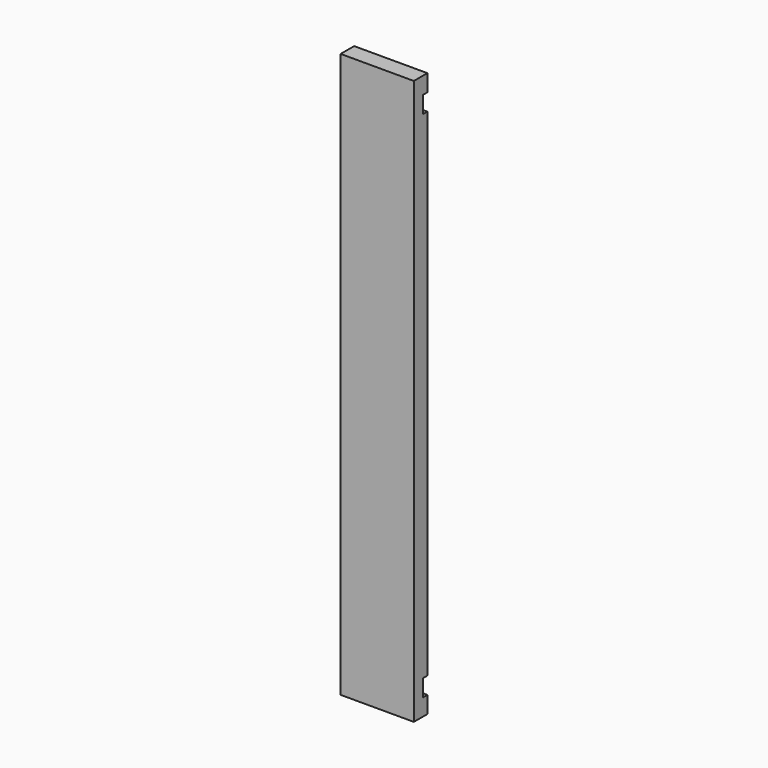
from build123d import *

# Parameters (mm, degrees)
F0_W     = 82.407208
F0_H     = 635
F1_DEPTH = 19.05
F2_W     = 6.35
F2_H     = 19.05
F3_DEPTH = 82.408208


with BuildPart() as f1:
    # F0 (on Front) → F1 (new body)
    with BuildSketch(Plane.XZ):
        with Locations((41.203604, -317.5)):
            Rectangle(F0_W, F0_H)
    extrude(amount=F1_DEPTH)

    # F2 (on face) → F3 (cut, through all)
    with BuildSketch(Plane(origin=(0, 0, 0), x_dir=(0, -1, 0), z_dir=(-1, 0, 0))):
        with Locations((3.175, -28.575)):
            Rectangle(F2_W, F2_H)
        with Locations((3.175, -606.425)):
            Rectangle(F2_W, F2_H)
    extrude(amount=-F3_DEPTH, mode=Mode.SUBTRACT)


solid = f1.part
